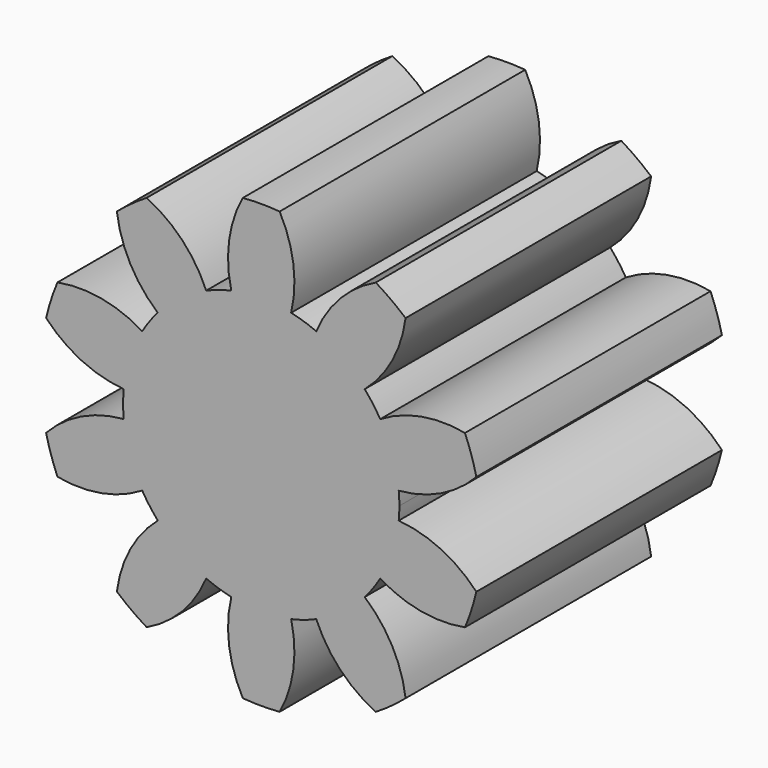
from build123d import *

# Parameters (mm, degrees)
F1_DEPTH = 5
F3_DEPTH = 5


with BuildPart() as f1:
    # F0 (on Front) → F1 (new body)
    with BuildSketch(Plane.XZ):
        with BuildLine():
            ThreePointArc((-0.487665, 2.196516), (-1.408058, -1.754957), (2.25, 0))
            ThreePointArc((2.25, 0), (1.754957, 1.408058), (0.487665, 2.196516))
            ThreePointArc((0.487665, 2.196516), (0, 2.25), (-0.487665, 2.196516))
        make_face()
    extrude(amount=F1_DEPTH)

    # F2 (on Front) + F0 (on Front) → F3 (join)
    with BuildSketch(Plane.XZ):
        with BuildLine():
            ThreePointArc((-1.685609, 1.490377), (-1.322517, 1.820288), (-0.896551, 2.063661))
            ThreePointArc((-0.896551, 2.063661), (-1.286731, 2.661442), (-1.865962, 3.078666))
            ThreePointArc((-1.865962, 3.078666), (-2.116027, 2.912461), (-2.351372, 2.725995))
            ThreePointArc((-2.351372, 2.725995), (-2.13356, 2.046185), (-1.685609, 1.490377))
        make_face()
        with BuildLine():
            ThreePointArc((0.896551, 2.063661), (1.322517, 1.820288), (1.685609, 1.490377))
            ThreePointArc((1.685609, 1.490377), (2.13356, 2.046185), (2.351372, 2.725995))
            ThreePointArc((2.351372, 2.725995), (2.116027, 2.912461), (1.865962, 3.078666))
            ThreePointArc((1.865962, 3.078666), (1.286731, 2.661442), (0.896551, 2.063661))
        make_face()
        with BuildLine():
            ThreePointArc((1.938314, 1.142558), (2.139877, 0.695288), (2.239708, 0.214964))
            ThreePointArc((2.239708, 0.214964), (2.928804, 0.401323), (3.5046, 0.823275))
            ThreePointArc((3.5046, 0.823275), (3.423803, 1.112461), (3.319189, 1.393909))
            ThreePointArc((3.319189, 1.393909), (2.605344, 1.39683), (1.938314, 1.142558))
        make_face()
        with BuildLine():
            ThreePointArc((3.5046, -0.823275), (2.928804, -0.401323), (2.239708, -0.214964))
            ThreePointArc((2.239708, -0.214964), (2.139877, -0.695288), (1.938314, -1.142558))
            ThreePointArc((1.938314, -1.142558), (2.605344, -1.39683), (3.319189, -1.393909))
            ThreePointArc((3.319189, -1.393909), (3.423803, -1.112461), (3.5046, -0.823275))
        make_face()
        with BuildLine():
            ThreePointArc((2.351372, -2.725995), (2.13356, -2.046185), (1.685609, -1.490377))
            ThreePointArc((1.685609, -1.490377), (1.322517, -1.820288), (0.896551, -2.063661))
            ThreePointArc((0.896551, -2.063661), (1.286731, -2.661442), (1.865962, -3.078666))
            ThreePointArc((1.865962, -3.078666), (2.116027, -2.912461), (2.351372, -2.725995))
        make_face()
        with BuildLine():
            ThreePointArc((0.3, -3.587478), (0.523369, -2.909474), (0.487665, -2.196516))
            ThreePointArc((0.487665, -2.196516), (0, -2.25), (-0.487665, -2.196516))
            ThreePointArc((-0.487665, -2.196516), (-0.523369, -2.909474), (-0.3, -3.587478))
            ThreePointArc((-0.3, -3.587478), (0, -3.6), (0.3, -3.587478))
        make_face()
        with BuildLine():
            ThreePointArc((-2.239708, 0.214964), (-2.139877, 0.695288), (-1.938314, 1.142558))
            ThreePointArc((-1.938314, 1.142558), (-2.605344, 1.39683), (-3.319189, 1.393909))
            ThreePointArc((-3.319189, 1.393909), (-3.423803, 1.112461), (-3.5046, 0.823275))
            ThreePointArc((-3.5046, 0.823275), (-2.928804, 0.401323), (-2.239708, 0.214964))
        make_face()
        with BuildLine():
            ThreePointArc((-1.865962, -3.078666), (-1.286731, -2.661442), (-0.896551, -2.063661))
            ThreePointArc((-0.896551, -2.063661), (-1.322517, -1.820288), (-1.685609, -1.490377))
            ThreePointArc((-1.685609, -1.490377), (-2.13356, -2.046185), (-2.351372, -2.725995))
            ThreePointArc((-2.351372, -2.725995), (-2.116027, -2.912461), (-1.865962, -3.078666))
        make_face()
        with BuildLine():
            ThreePointArc((-3.319189, -1.393909), (-2.605344, -1.39683), (-1.938314, -1.142558))
            ThreePointArc((-1.938314, -1.142558), (-2.139877, -0.695288), (-2.239708, -0.214964))
            ThreePointArc((-2.239708, -0.214964), (-2.928804, -0.401323), (-3.5046, -0.823275))
            ThreePointArc((-3.5046, -0.823275), (-3.423803, -1.112461), (-3.319189, -1.393909))
        make_face()
    with BuildSketch(Plane.XZ):
        with BuildLine():
            ThreePointArc((-0.487665, 2.196516), (0, 2.25), (0.487665, 2.196516))
            ThreePointArc((0.487665, 2.196516), (0.523369, 2.909474), (0.3, 3.587478))
            ThreePointArc((0.3, 3.587478), (0, 3.6), (-0.3, 3.587478))
            ThreePointArc((-0.3, 3.587478), (-0.523369, 2.909474), (-0.487665, 2.196516))
        make_face()
    extrude(amount=F3_DEPTH)


solid = f1.part
